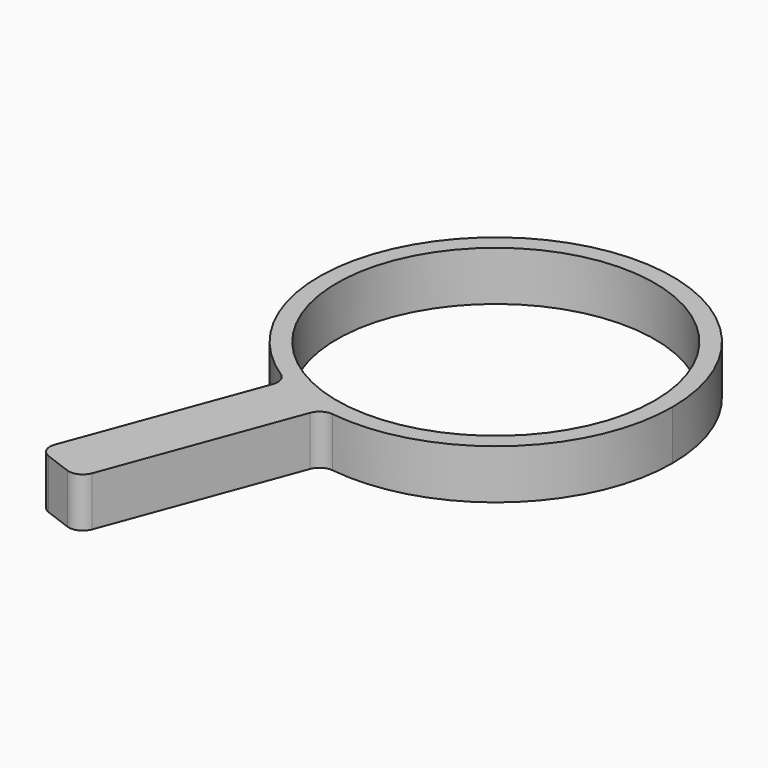
from build123d import *

# Parameters (mm, degrees)
F1_DEPTH = 3.5
F2_R     = 11.25
F3_DEPTH = 3.501
F4_R     = 1


with BuildPart() as f1:
    # F0 (on Top) → F1 (new body)
    with BuildSketch(Plane.XY):
        with BuildLine():
            ThreePointArc((-2.415318, -12.26443), (7.939097, -9.655089), (12.5, 0))
            ThreePointArc((12.5, 0), (-6.292003, 10.800958), (-6.165711, -10.873546))
            ThreePointArc((-6.165711, -10.873546), (-4.346511, -11.719976), (-2.415318, -12.26443))
        make_face()
        with BuildLine():
            ThreePointArc((-2.415318, -12.26443), (-4.346511, -11.719976), (-6.165711, -10.873546))
            Line((-6.165711, -10.873546), (-11.688228, -25.764521))
            Line((-11.688228, -25.764521), (-7.937836, -27.155404))
            Line((-7.937836, -27.155404), (-2.415318, -12.26443))
        make_face()
    extrude(amount=F1_DEPTH)

    # F2 (on face) → F3 (cut, through all)
    with BuildSketch(Plane(origin=(0, 0, 0), x_dir=(1, 0, 0), z_dir=(0, 0, -1))):
        Circle(F2_R)
    extrude(amount=-F3_DEPTH, mode=Mode.SUBTRACT)

    # F4
    f4_edges = [f1.edges().sort_by_distance(p)[0] for p in [
        (-7.937836, -27.155404, 1.75),
        (-11.688228, -25.764521, 1.75),
        (-2.415318, -12.26443, 1.75),
        (-6.165711, -10.873546, 1.75),
    ]]
    fillet(f4_edges, radius=F4_R)


solid = f1.part
